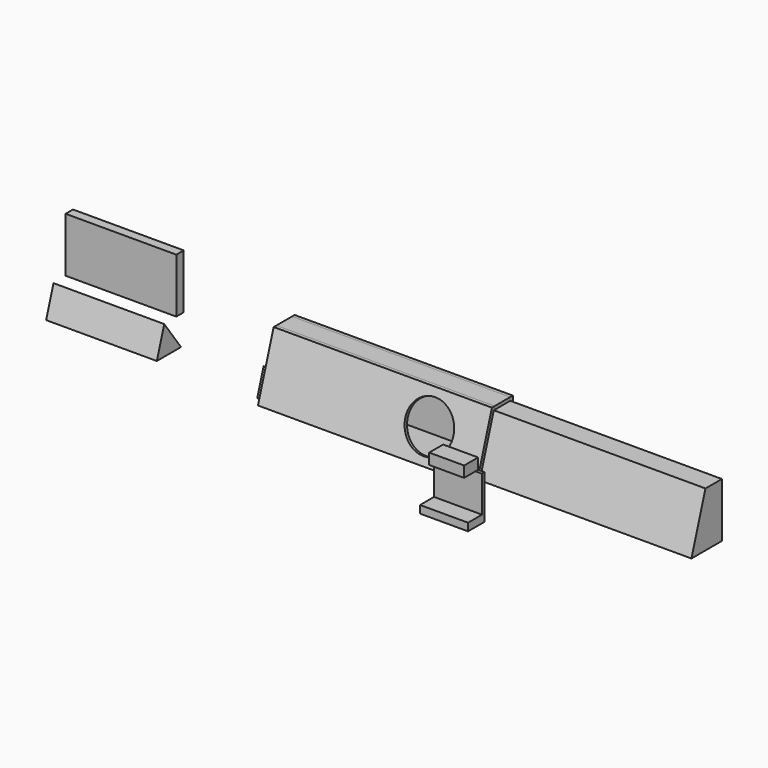
from build123d import *

# Parameters (mm, degrees)
F1_DEPTH  = 1270
F2_DEPTH  = 1270
F3_DEPTH  = 1270
F4_DEPTH  = 1270
F5_DEPTH  = 663.575
F6_DEPTH  = 19.05
F8_DEPTH  = 19.05
F10_DEPTH = 19.05
F12_DEPTH = 19.05
F14_DEPTH = 1231.9
F17_DEPTH = 644.525
F18_W     = 53.975
F18_H     = 317.5
F19_DEPTH = 644.525
F21_DEPTH = 25.4
F22_R     = 140.49375
F23_DEPTH = 25.4
F25_W     = 279.4
F25_H     = 120.65
F26_DEPTH = 44.45
F27_W     = 279.4
F27_H     = 19.05
F28_DEPTH = 209.55
F30_DEPTH = 63.5
F31_W     = 203.2
F31_H     = 63.5
F32_DEPTH = 82.55
F34_DEPTH = 25.4


with BuildPart() as f1:
    # F0 (on Right) → F1 (new body)
    with BuildSketch(Plane.YZ):
        Polygon((-53.6909185494, 166.8211857855), (-167.9909185494, -188.7788142145), (-147.9810146719, -188.7788142145), (-141.8578003862, -169.7288142145), (-95.2220012912, -24.6396614746), (-88.0080813437, -2.1963549711), (-39.8042289576, 147.7711857855), (-33.6810146719, 166.8211857855), align=None)
    extrude(amount=F1_DEPTH)

    # F22 (on face) → F23 (cut)
    with BuildSketch(Plane(origin=(0, -97.2631433072, 31.2631532059), x_dir=(1, 0, 0), z_dir=(0, -0.9520285613, 0.3060091804))):
        with Locations((951.8334269524, -44.3704833428)):
            Circle(F22_R)
    extrude(amount=-F23_DEPTH, mode=Mode.SUBTRACT)


with BuildPart() as f2:
    # F0 (on Right) → F2 (new body)
    with BuildSketch(Plane.YZ):
        Polygon((79.6590814506, 166.8211857855), (-33.6810146719, 166.8211857855), (-39.8042289576, 147.7711857855), (79.6590814506, 147.7711857855), align=None)
    extrude(amount=F2_DEPTH)


with BuildPart() as f3:
    # F0 (on Right) → F3 (new body)
    with BuildSketch(Plane.YZ):
        Polygon((79.6590814506, -169.7288142145), (79.6590814506, -188.7788142145), (98.7090814506, -188.7788142145), (98.7090814506, 166.8211857855), (79.6590814506, 166.8211857855), (79.6590814506, 147.7711857855), align=None)
    extrude(amount=F3_DEPTH)


with BuildPart() as f4:
    # F0 (on Right) → F4 (new body)
    with BuildSketch(Plane.YZ):
        Polygon((-141.8578003862, -169.7288142145), (-147.9810146719, -188.7788142145), (79.6590814506, -188.7788142145), (79.6590814506, -169.7288142145), (34.1163941456, -169.7288142145), (10.5421996138, -169.7288142145), align=None)
    extrude(amount=F4_DEPTH)


with BuildPart() as f5:
    # F0 (on Right) → F5 (new body)
    with BuildSketch(Plane.YZ):
        Polygon((-88.0080813437, -2.1963549711), (-95.2220012912, -24.6396614746), (10.5421996138, -169.7288142145), (34.1163941456, -169.7288142145), align=None)
    extrude(amount=F5_DEPTH)

    # F0 (on Right) → F8 (cut)
    with BuildSketch(Plane.YZ):
        Polygon((-88.0080813437, -2.1963549711), (-95.2220012912, -24.6396614746), (10.5421996138, -169.7288142145), (34.1163941456, -169.7288142145), align=None)
    extrude(amount=F8_DEPTH, mode=Mode.SUBTRACT)


with BuildPart() as f6:
    # F0 (on Right) → F6 (new body)
    with BuildSketch(Plane.YZ):
        Polygon((34.1163941456, -169.7288142145), (79.6590814506, -169.7288142145), (79.6590814506, 147.7711857855), (-39.8042289576, 147.7711857855), (-88.0080813437, -2.1963549711), align=None)
    extrude(amount=F6_DEPTH)


with BuildPart() as f10:
    # F9 (on face) → F10 (new body)
    with BuildSketch(Plane.YZ):
        Polygon((79.6590814506, -169.7288142145), (79.6590814506, 147.7711857855), (-39.8042289576, 147.7711857855), (-95.2220012912, -24.6396614746), (10.5421996138, -169.7288142145), align=None)
    extrude(amount=F10_DEPTH)


with BuildPart() as f12:
    # F11 (on face) → F12 (new body)
    with BuildSketch(Plane.YZ.offset(1270)):
        Polygon((79.6590814506, 147.7711857855), (-39.8042289576, 147.7711857855), (-141.8578003862, -169.7288142145), (79.6590814506, -169.7288142145), align=None)
    extrude(amount=-F12_DEPTH)


with BuildPart() as f14:
    # F13 (on face) → F14 (new body)
    with BuildSketch(Plane.YZ.offset(1270)):
        Polygon((79.6590814506, 147.7711857855), (-39.8042289576, 147.7711857855), (-141.8578003862, -169.7288142145), (79.6590814506, -169.7288142145), align=None)
    extrude(amount=F14_DEPTH)


with BuildPart() as f17:
    # F16 (on offset) → F17 (new body)
    with BuildSketch(Plane.YZ.offset(-609.6)):
        Polygon((34.1163941456, -169.7288142145), (-88.0080813437, -2.1963549711), (-141.8578003862, -169.7288142145), align=None)
    extrude(amount=-F17_DEPTH)


with BuildPart() as f19:
    # F18 (on offset) → F19 (new body)
    with BuildSketch(Plane.YZ.offset(-609.6)):
        with Locations((26.9875, 158.75)):
            Rectangle(F18_W, F18_H)
    extrude(amount=-F19_DEPTH)


with BuildPart() as f21:
    # F0 (on Right) → F21 (new body)
    with BuildSketch(Plane.YZ):
        Polygon((-95.2220012912, -24.6396614746), (-141.8578003862, -169.7288142145), (10.5421996138, -169.7288142145), align=None)
    extrude(amount=-F21_DEPTH)


with BuildPart() as f26:
    # F25 (on Top) → F26 (new body)
    with BuildSketch(Plane.XY):
        with Locations((1606.16296978, -761.7842885971)):
            Rectangle(F25_W, F25_H)
    extrude(amount=F26_DEPTH)

    # F27 (on face) → F28 (join)
    with BuildSketch(Plane.XY.offset(44.45)):
        with Locations((1606.16296978, -710.9842885971)):
            Rectangle(F27_W, F27_H)
    extrude(amount=F28_DEPTH)

    # F29 (on face) → F30 (join)
    with BuildSketch(Plane.XY.offset(254)):
        Polygon((1504.56296978, -720.5092885971), (1606.16296978, -720.5092885971), (1707.76296978, -720.5092885971), (1707.76296978, -701.4592885971), (1504.56296978, -701.4592885971), align=None)
    extrude(amount=F30_DEPTH)

    # F31 (on face) → F32 (join)
    with BuildSketch(Plane.XZ.offset(720.5092885971)):
        with Locations((1606.16296978, 285.75)):
            Rectangle(F31_W, F31_H)
    extrude(amount=F32_DEPTH)


with BuildPart() as f34:
    # F33 (on face) → F34 (new body)
    with BuildSketch(Plane.YZ):
        Polygon((10.5421996138, -169.7288142145), (-95.2220012912, -24.6396614746), (-141.8578003862, -169.7288142145), align=None)
    extrude(amount=-F34_DEPTH)


solid = Compound([f1.part, f2.part, f3.part, f4.part, f5.part, f10.part, f12.part, f14.part, f17.part, f19.part, f26.part, f34.part])
